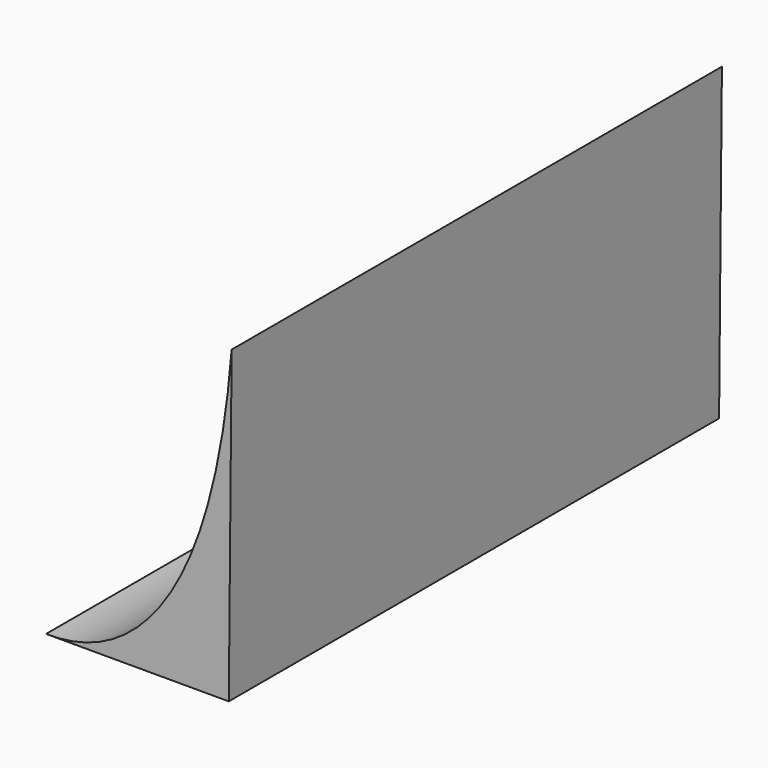
from build123d import *

# Parameters (mm, degrees)
F1_DEPTH = 59.436


with BuildPart() as f1:
    # F0 (on Front) → F1 (new body, symmetric)
    with BuildSketch(Plane.XZ):
        with BuildLine():
            add(Edge.make_bspline(
                [(0, 0), (5.827911, 0), (31.15816, 0), (35.992922, 60.254245)],
                knots=[0, 0, 0, 0, 78.288151, 78.288151, 78.288151, 78.288151], degree=3))
            Line((0, 0), (35.442077, 0))
            Line((35.442077, 0), (35.992922, 60.254245))
        make_face()
    extrude(amount=F1_DEPTH, both=True)


solid = f1.part
